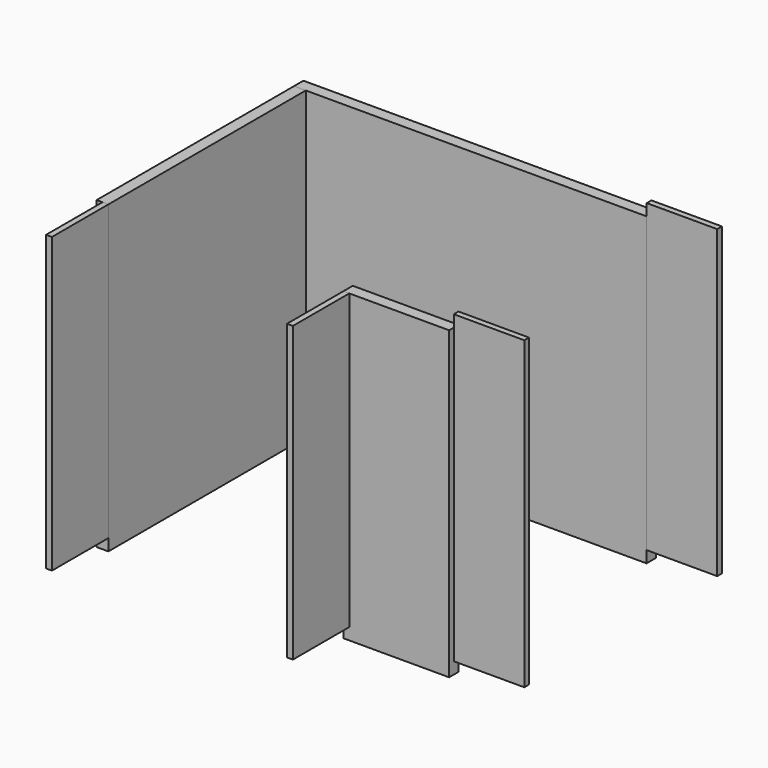
from build123d import *

# Parameters (mm, degrees)
BOX010_W     = 2.5
BOX010_H     = 35
BOX010_DEPTH = 125
BOX009_W     = 2.5
BOX009_H     = 60
BOX009_DEPTH = 125
BOX004_W     = 5
BOX004_H     = 110
BOX004_DEPTH = 130
BOX002_W     = 150
BOX002_H     = 5
BOX002_DEPTH = 130
BOX003_W     = 45
BOX003_H     = 5
BOX003_DEPTH = 130
BOX006_W     = 30
BOX006_H     = 2.5
BOX006_DEPTH = 130
BOX007_W     = 30
BOX007_H     = 2.5
BOX007_DEPTH = 130


with BuildPart() as cube010:
    # Box010 → Box010 (new body)
    with BuildSketch(Plane(origin=(105, -30, 5), x_dir=(1, 0, 0), z_dir=(0, 0, 1))):
        with Locations((1.25, 17.5)):
            Rectangle(BOX010_W, BOX010_H)
    extrude(amount=BOX010_DEPTH)


with BuildPart() as cube009:
    # Box009 → Box009 (new body)
    with BuildSketch(Plane(origin=(2.5, -30, 5), x_dir=(1, 0, 0), z_dir=(0, 0, 1))):
        with Locations((1.25, 30)):
            Rectangle(BOX009_W, BOX009_H)
    extrude(amount=BOX009_DEPTH)


with BuildPart() as cube004:
    # Box004 → Box004 (new body)
    with BuildSketch(Plane.XY):
        with Locations((2.5, 55)):
            Rectangle(BOX004_W, BOX004_H)
    extrude(amount=BOX004_DEPTH)


with BuildPart() as cube002:
    # Box002 → Box002 (new body)
    with BuildSketch(Plane(origin=(0, 105, 0), x_dir=(1, 0, 0), z_dir=(0, 0, 1))):
        with Locations((75, 2.5)):
            Rectangle(BOX002_W, BOX002_H)
    extrude(amount=BOX002_DEPTH)


with BuildPart() as cube003:
    # Box003 → Box003 (new body)
    with BuildSketch(Plane(origin=(105, 0, 0), x_dir=(1, 0, 0), z_dir=(0, 0, 1))):
        with Locations((22.5, 2.5)):
            Rectangle(BOX003_W, BOX003_H)
    extrude(amount=BOX003_DEPTH)


with BuildPart() as cube006:
    # Box006 → Box006 (new body)
    with BuildSketch(Plane(origin=(149.988329, 2.490229, 5), x_dir=(1, 0, 0), z_dir=(0, 0, 1))):
        with Locations((15, 1.25)):
            Rectangle(BOX006_W, BOX006_H)
    extrude(amount=BOX006_DEPTH)


with BuildPart() as cube007:
    # Box007 → Box007 (new body)
    with BuildSketch(Plane(origin=(150.083035, 104.985423, 5), x_dir=(1, 0, 0), z_dir=(0, 0, 1))):
        with Locations((15, 1.25)):
            Rectangle(BOX007_W, BOX007_H)
    extrude(amount=BOX007_DEPTH)


solid = Compound([cube010.part, cube009.part, cube004.part, cube002.part, cube003.part, cube006.part, cube007.part])
